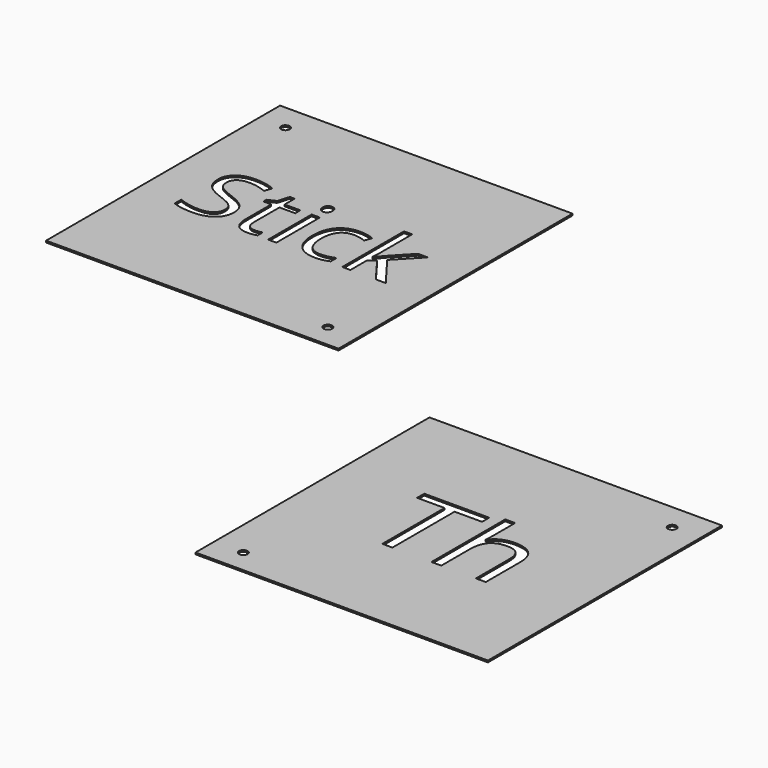
from build123d import *

# Parameters (mm, degrees)
F0_W     = 170
F0_H     = 170
F0_W_2   = 4.7931015239
F0_H_2   = 31.6307759527
F0_R     = 2.5
F1_DEPTH = 1
F2_W     = 170
F2_H     = 170
F2_R     = 2.5
F3_DEPTH = 1


with BuildPart() as f1:
    # F0 (on Top) → F1 (new body)
    with BuildSketch(Plane.XY):
        with Locations((-59.0253463387, 62.6966776699)):
            Rectangle(F0_W, F0_H)
        with BuildLine():
            add(Edge.make_bspline(
                [(-97.2223920774, 59.6859858566), (-94.7288710534, 56.9708185194), (-94.7288710534, 52.6487154111)],
                knots=[0, 0, 0, 1, 1, 1], degree=2))
            add(Edge.make_bspline(
                [(-94.7288710534, 52.6487154111), (-94.7288710534, 47.0798517908), (-98.7692986386, 43.9583328793)],
                knots=[0, 0, 0, 1, 1, 1], degree=2))
            add(Edge.make_bspline(
                [(-98.7692986386, 43.9583328793), (-102.8097262238, 40.8368139677), (-109.7361735127, 40.8368139677)],
                knots=[0, 0, 0, 1, 1, 1], degree=2))
            add(Edge.make_bspline(
                [(-109.7361735127, 40.8368139677), (-117.2352071109, 40.8368139677), (-121.2802523276, 42.7762192086)],
                knots=[0, 0, 0, 1, 1, 1], degree=2))
            Line((-121.2802523276, 42.7762192086), (-121.2802523276, 47.5046738912))
            add(Edge.make_bspline(
                [(-121.2802523276, 47.5046738912), (-118.675908147, 46.4149128511), (-115.6190360768, 45.7776797005)],
                knots=[0, 0, 0, 1, 1, 1], degree=2))
            add(Edge.make_bspline(
                [(-115.6190360768, 45.7776797005), (-112.5621640066, 45.1404465499), (-109.5607035147, 45.1404465499)],
                knots=[0, 0, 0, 1, 1, 1], degree=2))
            add(Edge.make_bspline(
                [(-109.5607035147, 45.1404465499), (-104.6567788342, 45.1404465499), (-102.1724930732, 47.0013520549)],
                knots=[0, 0, 0, 1, 1, 1], degree=2))
            add(Edge.make_bspline(
                [(-102.1724930732, 47.0013520549), (-99.6882073123, 48.8622575598), (-99.6882073123, 52.1869522585)],
                knots=[0, 0, 0, 1, 1, 1], degree=2))
            add(Edge.make_bspline(
                [(-99.6882073123, 52.1869522585), (-99.6882073123, 54.3757096018), (-100.5701749337, 55.7748519542)],
                knots=[0, 0, 0, 1, 1, 1], degree=2))
            add(Edge.make_bspline(
                [(-100.5701749337, 55.7748519542), (-101.4521425552, 57.1739943065), (-103.5162238473, 58.3607256087)],
                knots=[0, 0, 0, 1, 1, 1], degree=2))
            add(Edge.make_bspline(
                [(-103.5162238473, 58.3607256087), (-105.5803051394, 59.5474569108), (-109.791585091, 61.0435695253)],
                knots=[0, 0, 0, 1, 1, 1], degree=2))
            add(Edge.make_bspline(
                [(-109.791585091, 61.0435695253), (-115.6744476551, 63.1492095011), (-118.2002920998, 66.0352292048)],
                knots=[0, 0, 0, 1, 1, 1], degree=2))
            add(Edge.make_bspline(
                [(-118.2002920998, 66.0352292048), (-120.7261365445, 68.9212489085), (-120.7261365445, 73.5665862236)],
                knots=[0, 0, 0, 1, 1, 1], degree=2))
            add(Edge.make_bspline(
                [(-120.7261365445, 73.5665862236), (-120.7261365445, 78.442805115), (-117.0643547444, 81.3288248187)],
                knots=[0, 0, 0, 1, 1, 1], degree=2))
            add(Edge.make_bspline(
                [(-117.0643547444, 81.3288248187), (-113.4025729443, 84.2148445224), (-107.3627109084, 84.2148445224)],
                knots=[0, 0, 0, 1, 1, 1], degree=2))
            add(Edge.make_bspline(
                [(-107.3627109084, 84.2148445224), (-101.0734967701, 84.2148445224), (-95.7909263044, 81.9060287594)],
                knots=[0, 0, 0, 1, 1, 1], degree=2))
            Line((-95.7909263044, 81.9060287594), (-97.323979971, 77.6393372295))
            add(Edge.make_bspline(
                [(-97.323979971, 77.6393372295), (-102.5511388584, 79.8280945728), (-107.4827693281, 79.8280945728)],
                knots=[0, 0, 0, 1, 1, 1], degree=2))
            add(Edge.make_bspline(
                [(-107.4827693281, 79.8280945728), (-111.380050336, 79.8280945728), (-113.5734253108, 78.1565119604)],
                knots=[0, 0, 0, 1, 1, 1], degree=2))
            add(Edge.make_bspline(
                [(-113.5734253108, 78.1565119604), (-115.7668002856, 76.484929348), (-115.7668002856, 73.5111746453)],
                knots=[0, 0, 0, 1, 1, 1], degree=2))
            add(Edge.make_bspline(
                [(-115.7668002856, 73.5111746453), (-115.7668002856, 71.322417302), (-114.9587147686, 69.9186573181)],
                knots=[0, 0, 0, 1, 1, 1], degree=2))
            add(Edge.make_bspline(
                [(-114.9587147686, 69.9186573181), (-114.1506292515, 68.5148973342), (-112.2296945367, 67.3466365582)],
                knots=[0, 0, 0, 1, 1, 1], degree=2))
            add(Edge.make_bspline(
                [(-112.2296945367, 67.3466365582), (-110.308759822, 66.1783757821), (-106.3560672357, 64.7653805352)],
                knots=[0, 0, 0, 1, 1, 1], degree=2))
            add(Edge.make_bspline(
                [(-106.3560672357, 64.7653805352), (-99.7159131014, 62.4011531939), (-97.2223920774, 59.6859858566)],
                knots=[0, 0, 0, 1, 1, 1], degree=2))
        make_face(mode=Mode.SUBTRACT)
        with BuildLine():
            add(Edge.make_bspline(
                [(-80.3218606925, 46.3271778521), (-78.9642770239, 44.798741817), (-76.6000496826, 44.798741817)],
                knots=[0, 0, 0, 1, 1, 1], degree=2))
            add(Edge.make_bspline(
                [(-76.6000496826, 44.798741817), (-75.3255833814, 44.798741817), (-74.1434697108, 44.983447078)],
                knots=[0, 0, 0, 1, 1, 1], degree=2))
            add(Edge.make_bspline(
                [(-74.1434697108, 44.983447078), (-72.9613560402, 45.1681523391), (-72.2687113113, 45.3713281262)],
                knots=[0, 0, 0, 1, 1, 1], degree=2))
            Line((-72.2687113113, 45.3713281262), (-72.2687113113, 41.7049286946))
            add(Edge.make_bspline(
                [(-72.2687113113, 41.7049286946), (-73.0444734076, 41.3355181725), (-74.5590565481, 41.0861660701)],
                knots=[0, 0, 0, 1, 1, 1], degree=2))
            add(Edge.make_bspline(
                [(-74.5590565481, 41.0861660701), (-76.0736396886, 40.8368139677), (-77.2926944115, 40.8368139677)],
                knots=[0, 0, 0, 1, 1, 1], degree=2))
            add(Edge.make_bspline(
                [(-77.2926944115, 40.8368139677), (-86.463310622, 40.8368139677), (-86.463310622, 50.5061343831)],
                knots=[0, 0, 0, 1, 1, 1], degree=2))
            Line((-86.463310622, 50.5061343831), (-86.463310622, 69.3276004828))
            Line((-86.463310622, 69.3276004828), (-90.9978247805, 69.3276004828))
            Line((-90.9978247805, 69.3276004828), (-90.9978247805, 71.6364162458))
            Line((-90.9978247805, 71.6364162458), (-86.463310622, 73.631233065))
            Line((-86.463310622, 73.631233065), (-84.4500232767, 80.3822103559))
            Line((-84.4500232767, 80.3822103559), (-81.6794443611, 80.3822103559))
            Line((-81.6794443611, 80.3822103559), (-81.6794443611, 73.0494114927))
            Line((-81.6794443611, 73.0494114927), (-72.4995928876, 73.0494114927))
            Line((-72.4995928876, 73.0494114927), (-72.4995928876, 69.3276004828))
            Line((-72.4995928876, 69.3276004828), (-81.6794443611, 69.3276004828))
            Line((-81.6794443611, 69.3276004828), (-81.6794443611, 50.7093101702))
            add(Edge.make_bspline(
                [(-81.6794443611, 50.7093101702), (-81.6794443611, 47.8556138872), (-80.3218606925, 46.3271778521)],
                knots=[0, 0, 0, 1, 1, 1], degree=2))
        make_face(mode=Mode.SUBTRACT)
        with Locations((-63.5552406218, 57.2340235164)):
            Rectangle(F0_W_2, F0_H_2, mode=Mode.SUBTRACT)
        with Locations((8.9746536613, -8.8033223301)):
            Circle(F0_R, mode=Mode.SUBTRACT)
        with BuildLine():
            add(Edge.make_bspline(
                [(-30.3683228449, 42.489926054), (-33.5360180717, 40.8368139677), (-38.3568253848, 40.8368139677)],
                knots=[0, 0, 0, 1, 1, 1], degree=2))
            add(Edge.make_bspline(
                [(-38.3568253848, 40.8368139677), (-45.2278610954, 40.8368139677), (-48.9958484205, 45.0665644455)],
                knots=[0, 0, 0, 1, 1, 1], degree=2))
            add(Edge.make_bspline(
                [(-48.9958484205, 45.0665644455), (-52.7638357457, 49.2963149233), (-52.7638357457, 57.0354653607)],
                knots=[0, 0, 0, 1, 1, 1], degree=2))
            add(Edge.make_bspline(
                [(-52.7638357457, 57.0354653607), (-52.7638357457, 64.9685563223), (-48.9358192107, 69.2998946936)],
                knots=[0, 0, 0, 1, 1, 1], degree=2))
            add(Edge.make_bspline(
                [(-48.9358192107, 69.2998946936), (-45.1078026757, 73.631233065), (-38.042826441, 73.631233065)],
                knots=[0, 0, 0, 1, 1, 1], degree=2))
            add(Edge.make_bspline(
                [(-38.042826441, 73.631233065), (-35.7617164672, 73.631233065), (-33.4806064934, 73.1371464917)],
                knots=[0, 0, 0, 1, 1, 1], degree=2))
            add(Edge.make_bspline(
                [(-33.4806064934, 73.1371464917), (-31.1994965196, 72.6430599184), (-29.9065596923, 71.9781209787)],
                knots=[0, 0, 0, 1, 1, 1], degree=2))
            Line((-29.9065596923, 71.9781209787), (-31.3749665175, 67.9146052358))
            add(Edge.make_bspline(
                [(-31.3749665175, 67.9146052358), (-32.9634317625, 68.5518383864), (-34.838190162, 68.9674252238)],
                knots=[0, 0, 0, 1, 1, 1], degree=2))
            add(Edge.make_bspline(
                [(-34.838190162, 68.9674252238), (-36.7129485615, 69.3830120611), (-38.1536495976, 69.3830120611)],
                knots=[0, 0, 0, 1, 1, 1], degree=2))
            add(Edge.make_bspline(
                [(-38.1536495976, 69.3830120611), (-47.7952642238, 69.3830120611), (-47.7952642238, 57.090876939)],
                knots=[0, 0, 0, 1, 1, 1], degree=2))
            add(Edge.make_bspline(
                [(-47.7952642238, 57.090876939), (-47.7952642238, 51.2634259533), (-45.4448897771, 48.1465246733)],
                knots=[0, 0, 0, 1, 1, 1], degree=2))
            add(Edge.make_bspline(
                [(-45.4448897771, 48.1465246733), (-43.0945153304, 45.0296233933), (-38.4768838044, 45.0296233933)],
                knots=[0, 0, 0, 1, 1, 1], degree=2))
            add(Edge.make_bspline(
                [(-38.4768838044, 45.0296233933), (-34.5241912182, 45.0296233933), (-30.3683228449, 46.7289117948)],
                knots=[0, 0, 0, 1, 1, 1], degree=2))
            Line((-30.3683228449, 46.7289117948), (-30.3683228449, 42.489926054))
        make_face(mode=Mode.SUBTRACT)
        with BuildLine():
            add(Edge.make_bspline(
                [(-65.550057441, 79.2093319483), (-66.3581429581, 80.0035645708), (-66.3581429581, 81.6197356048)],
                knots=[0, 0, 0, 1, 1, 1], degree=2))
            add(Edge.make_bspline(
                [(-66.3581429581, 81.6197356048), (-66.3581429581, 83.2636124281), (-65.550057441, 84.0301392614)],
                knots=[0, 0, 0, 1, 1, 1], degree=2))
            add(Edge.make_bspline(
                [(-65.550057441, 84.0301392614), (-64.741971924, 84.7966660947), (-63.5229172011, 84.7966660947)],
                knots=[0, 0, 0, 1, 1, 1], degree=2))
            add(Edge.make_bspline(
                [(-63.5229172011, 84.7966660947), (-62.3685093196, 84.7966660947), (-61.5327180135, 84.0162863668)],
                knots=[0, 0, 0, 1, 1, 1], degree=2))
            add(Edge.make_bspline(
                [(-61.5327180135, 84.0162863668), (-60.6969267073, 83.2359066389), (-60.6969267073, 81.6197356048)],
                knots=[0, 0, 0, 1, 1, 1], degree=2))
            add(Edge.make_bspline(
                [(-60.6969267073, 81.6197356048), (-60.6969267073, 80.0035645708), (-61.5327180135, 79.2093319483)],
                knots=[0, 0, 0, 1, 1, 1], degree=2))
            add(Edge.make_bspline(
                [(-61.5327180135, 79.2093319483), (-62.3685093196, 78.4150993258), (-63.5229172011, 78.4150993258)],
                knots=[0, 0, 0, 1, 1, 1], degree=2))
            add(Edge.make_bspline(
                [(-63.5229172011, 78.4150993258), (-64.741971924, 78.4150993258), (-65.550057441, 79.2093319483)],
                knots=[0, 0, 0, 1, 1, 1], degree=2))
        make_face(mode=Mode.SUBTRACT)
        with Locations((-128.5253463387, 132.1966776699)):
            Circle(F0_R, mode=Mode.SUBTRACT)
        with BuildLine():
            Line((-18.3532456144, 57.60805167), (-18.1223640381, 57.60805167))
            add(Edge.make_bspline(
                [(-18.1223640381, 57.60805167), (-16.8848387891, 59.3719869129), (-14.3451414499, 62.2256831959)],
                knots=[0, 0, 0, 1, 1, 1], degree=2))
            Line((-14.3451414499, 62.2256831959), (-4.1309405145, 73.0494114927))
            Line((-4.1309405145, 73.0494114927), (1.5579815255, 73.0494114927))
            Line((1.5579815255, 73.0494114927), (-11.2605635905, 59.5751627))
            Line((-11.2605635905, 59.5751627), (2.4538020415, 41.41863554))
            Line((2.4538020415, 41.41863554), (-3.3459431551, 41.41863554))
            Line((-3.3459431551, 41.41863554), (-14.5206114479, 56.370526421))
            Line((-14.5206114479, 56.370526421), (-18.1223640381, 53.2490075095))
            Line((-18.1223640381, 53.2490075095), (-18.1223640381, 41.41863554))
            Line((-18.1223640381, 41.41863554), (-22.8600539837, 41.41863554))
            Line((-22.8600539837, 41.41863554), (-22.8600539837, 86.3297197613))
            Line((-22.8600539837, 86.3297197613), (-18.1223640381, 86.3297197613))
            Line((-18.1223640381, 86.3297197613), (-18.1223640381, 62.5119763505))
            add(Edge.make_bspline(
                [(-18.1223640381, 62.5119763505), (-18.1223640381, 60.9327463686), (-18.3532456144, 57.60805167)],
                knots=[0, 0, 0, 1, 1, 1], degree=2))
        make_face(mode=Mode.SUBTRACT)
    extrude(amount=F1_DEPTH)


with BuildPart() as f3:
    # F2 (on Top) → F3 (new body)
    with BuildSketch(Plane.XY):
        with Locations((185.4263925552, -134.3066328764)):
            Rectangle(F2_W, F2_H)
        with Locations((117.4263925552, -205.8066328764)):
            Circle(F2_R, mode=Mode.SUBTRACT)
        Polygon((167.2256302751, -114.5350349086), (167.2256302751, -159.7133890152), (161.3701980001, -159.7133890152), (161.3701980001, -114.5350349086), (145.4138693713, -114.5350349086), (145.4138693713, -109.3302062197), (183.1819589039, -109.3302062197), (183.1819589039, -114.5350349086), align=None, mode=Mode.SUBTRACT)
        with BuildLine():
            Line((221.4793530489, -159.7133890152), (215.756246927, -159.7133890152))
            Line((215.756246927, -159.7133890152), (215.756246927, -135.2771594081))
            add(Edge.make_bspline(
                [(215.756246927, -135.2771594081), (215.756246927, -130.6677984082), (213.6555692465, -128.3906858568)],
                knots=[0, 0, 0, 1, 1, 1], degree=2))
            add(Edge.make_bspline(
                [(213.6555692465, -128.3906858568), (211.5548915659, -126.1135733054), (207.0668295397, -126.1135733054)],
                knots=[0, 0, 0, 1, 1, 1], degree=2))
            add(Edge.make_bspline(
                [(207.0668295397, -126.1135733054), (201.1121526499, -126.1135733054), (198.3718985626, -129.3555640566)],
                knots=[0, 0, 0, 1, 1, 1], degree=2))
            add(Edge.make_bspline(
                [(198.3718985626, -129.3555640566), (195.6316444754, -132.5975548077), (195.6316444754, -139.963710664)],
                knots=[0, 0, 0, 1, 1, 1], degree=2))
            Line((195.6316444754, -139.963710664), (195.6316444754, -159.7133890152))
            Line((195.6316444754, -159.7133890152), (189.9085383535, -159.7133890152))
            Line((189.9085383535, -159.7133890152), (189.9085383535, -106.0882154686))
            Line((189.9085383535, -106.0882154686), (195.6316444754, -106.0882154686))
            Line((195.6316444754, -106.0882154686), (195.6316444754, -122.320223583))
            add(Edge.make_bspline(
                [(195.6316444754, -122.320223583), (195.6316444754, -125.2534533103), (195.3559649897, -127.1832097097)],
                knots=[0, 0, 0, 1, 1, 1], degree=2))
            Line((195.3559649897, -127.1832097097), (195.6978075519, -127.1832097097))
            add(Edge.make_bspline(
                [(195.6978075519, -127.1832097097), (197.384966004, -124.4594963916), (200.5056577815, -122.8936369132)],
                knots=[0, 0, 0, 1, 1, 1], degree=2))
            add(Edge.make_bspline(
                [(200.5056577815, -122.8936369132), (203.6263495589, -121.3277774347), (207.618188511, -121.3277774347)],
                knots=[0, 0, 0, 1, 1, 1], degree=2))
            add(Edge.make_bspline(
                [(207.618188511, -121.3277774347), (214.5432571902, -121.3277774347), (218.0113051196, -124.6193904933)],
                knots=[0, 0, 0, 1, 1, 1], degree=2))
            add(Edge.make_bspline(
                [(218.0113051196, -124.6193904933), (221.4793530489, -127.9110035518), (221.4793530489, -135.0786701784)],
                knots=[0, 0, 0, 1, 1, 1], degree=2))
            Line((221.4793530489, -135.0786701784), (221.4793530489, -159.7133890152))
        make_face(mode=Mode.SUBTRACT)
        with Locations((253.9263925552, -64.8066328764)):
            Circle(F2_R, mode=Mode.SUBTRACT)
    extrude(amount=F3_DEPTH)


solid = Compound([f1.part, f3.part])
